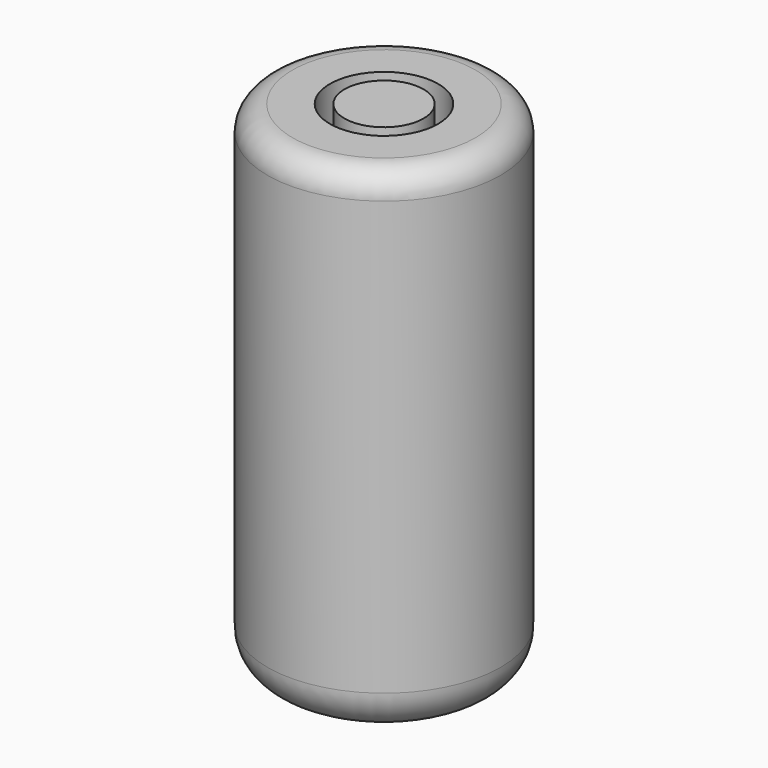
from build123d import *

# Parameters (mm, degrees)
F0_R     = 14
F0_R_2   = 9
F0_R_3   = 7.5
F1_DEPTH = 20
F2_R     = 14
F2_R_2   = 6.5
F2_R_3   = 4.75
F3_DEPTH = 40
F4_R     = 5
F5_R     = 3


with BuildPart() as f1:
    # F0 (on Top) → F1 (new body)
    with BuildSketch(Plane.XY):
        Circle(F0_R)
        Circle(F0_R_2, mode=Mode.SUBTRACT)
        Circle(F0_R_2)
        Circle(F0_R_3, mode=Mode.SUBTRACT)
        Circle(F0_R_3)
    extrude(amount=F1_DEPTH)

    # F2 (on face) → F3 (join)
    with BuildSketch(Plane.XY.offset(20)):
        Circle(F2_R)
        Circle(F2_R_2, mode=Mode.SUBTRACT)
        Circle(F2_R_3)
    extrude(amount=F3_DEPTH)

    # F4
    f4_edges = [f1.edges().sort_by_distance(p)[0] for p in [
        (-14, 0, 0),
    ]]
    fillet(f4_edges, radius=F4_R)

    # F5
    f5_edges = [f1.edges().sort_by_distance(p)[0] for p in [
        (-14, 0, 60),
    ]]
    fillet(f5_edges, radius=F5_R)


solid = f1.part
